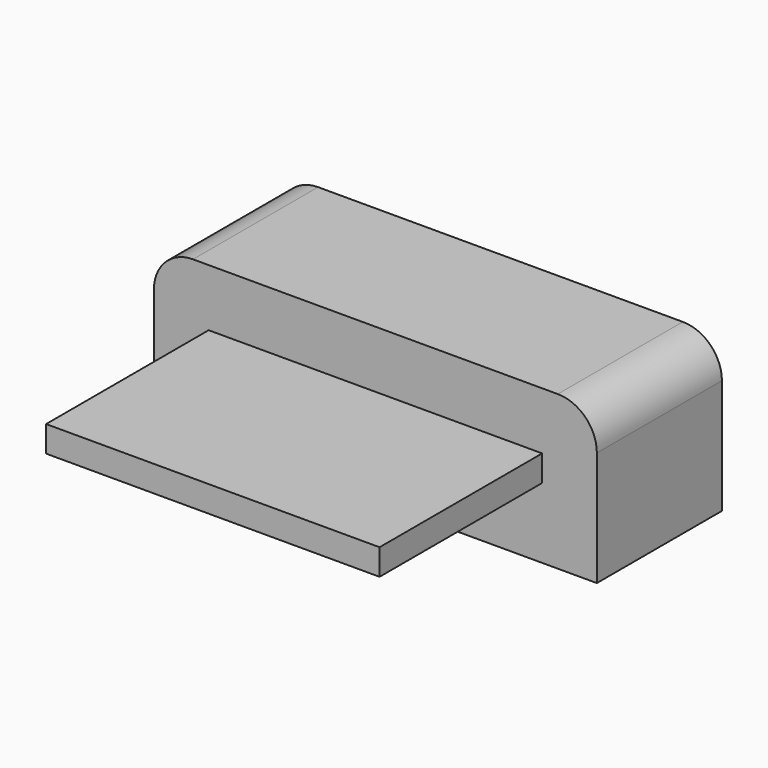
from build123d import *

# Parameters (mm, degrees)
BOX001_W                  = 6.4
BOX001_H                  = 0.5
BOX001_DEPTH              = 6.9
BOX067_W                  = 8.5
BOX067_H                  = 2.95
BOX067_DEPTH              = 3
FILLET011_R               = 0.75
FUSION051_PLACEMENT_ANGLE = 90


with BuildPart() as cube:
    # Box001 → Box001 (new body)
    with BuildSketch(Plane(origin=(-3.2, 1.35, 0), x_dir=(1, 0, 0), z_dir=(0, 0, 1))):
        with Locations((3.2, 0.25)):
            Rectangle(BOX001_W, BOX001_H)
    extrude(amount=BOX001_DEPTH)


with BuildPart() as body:
    # Box067 → Box067 (new body)
    with BuildSketch(Plane(origin=(-4.25, 0, 0), x_dir=(1, 0, 0), z_dir=(0, 0, 1))):
        with Locations((4.25, 1.475)):
            Rectangle(BOX067_W, BOX067_H)
    extrude(amount=BOX067_DEPTH)

    # Fillet011
    fillet011_edges = [body.edges().sort_by_distance(p)[0] for p in [
        (-4.25, 2.95, 1.5),
        (4.25, 2.95, 1.5),
    ]]
    fillet(fillet011_edges, radius=FILLET011_R)

    # Fusion051: union Cube
    add(cube.part)


with BuildPart() as body_1:
    # Fusion051 placement: moved
    add(body.part.rotate(Axis((0, 0, 0), (1, 0, 0)), FUSION051_PLACEMENT_ANGLE))


solid = body_1.part
